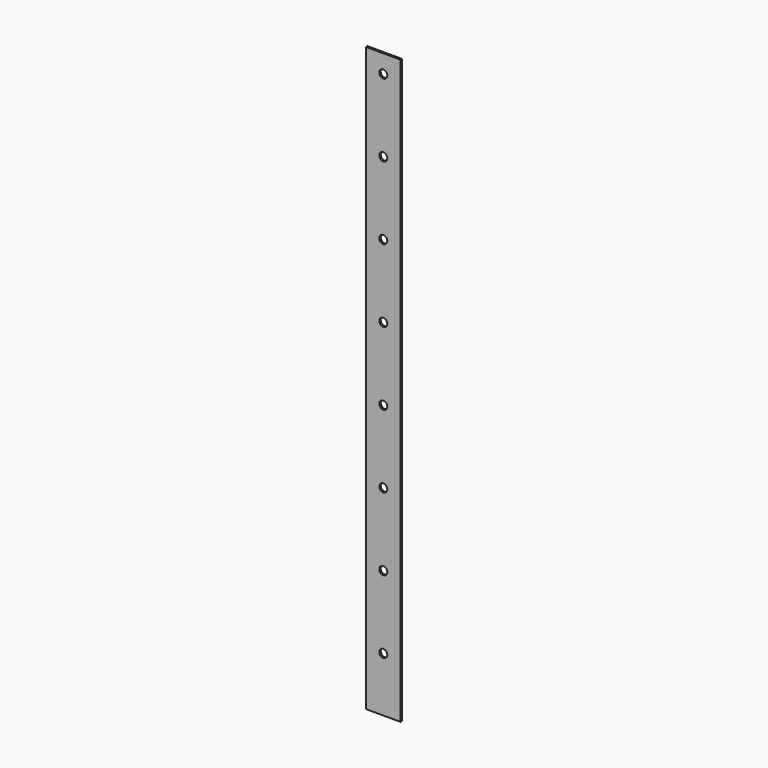
from build123d import *

# Parameters (mm, degrees)
F0_W     = 95
F0_H     = 1600
F1_DEPTH = 5
F2_R     = 11
F3_DEPTH = 25


with BuildPart() as f1:
    # F0 (on Front) → F1 (new body)
    with BuildSketch(Plane.XZ):
        Rectangle(F0_W, F0_H)
    extrude(amount=F1_DEPTH)

    # F2 (on face) → F3 (cut)
    with BuildSketch(Plane.XZ.offset(5)):
        with Locations((0, -250)):
            Circle(F2_R)
        with Locations((0, -50)):
            Circle(F2_R)
        with Locations((0, 150)):
            Circle(F2_R)
        with Locations((0, 350)):
            Circle(F2_R)
        with Locations((0, 550)):
            Circle(F2_R)
        with Locations((0, 750)):
            Circle(F2_R)
        with Locations((0, -450)):
            Circle(F2_R)
        with Locations((0, -650)):
            Circle(F2_R)
    extrude(amount=-F3_DEPTH, mode=Mode.SUBTRACT)


solid = f1.part
